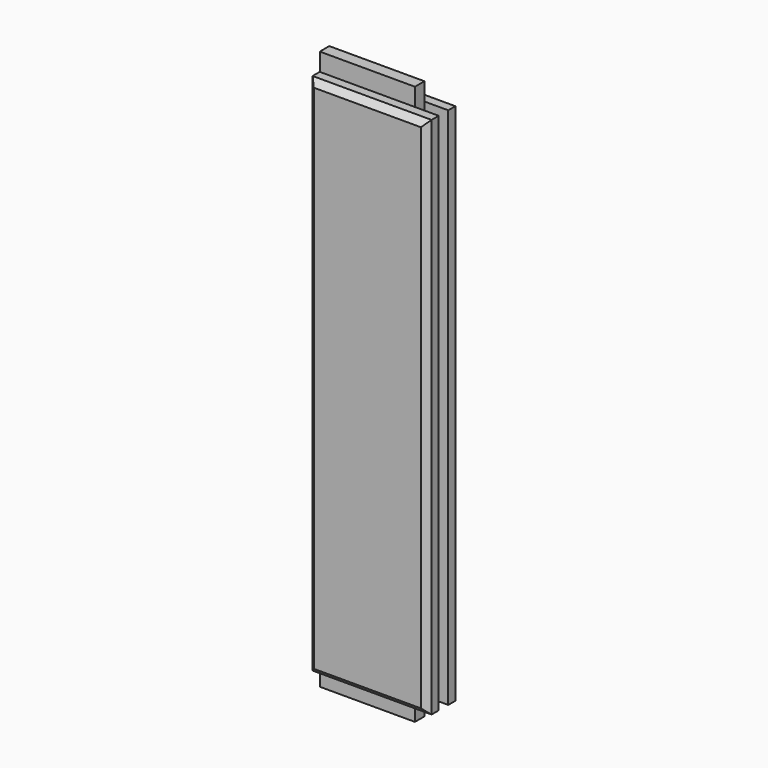
from build123d import *

# Parameters (mm, degrees)
F0_W     = 63.5
F0_H     = 19.05
F1_DEPTH = 279.4
F2_SIZE  = 3.175
F3_W     = 12.7
F3_H     = 6.35
F4_DEPTH = 279.401
F5_W     = 6.35
F5_H     = 9.525
F6_DEPTH = 50.8


with BuildPart() as f1:
    # F0 (on Top) → F1 (new body)
    with BuildSketch(Plane.XY):
        with Locations((31.75, 9.525)):
            Rectangle(F0_W, F0_H)
    extrude(amount=F1_DEPTH)

    # F2
    f2_edges = [f1.edges().sort_by_distance(p)[0] for p in [
        (0, 0, 139.7),
        (31.75, 0, 279.4),
        (63.5, 0, 139.7),
        (31.75, 0, 0),
    ]]
    chamfer(f2_edges, length=F2_SIZE)

    # F3 (on face) → F4 (cut, through all)
    with BuildSketch(Plane(origin=(0, 0, 0), x_dir=(1, 0, 0), z_dir=(0, 0, -1))):
        with Locations((57.15, -11.1125)):
            Rectangle(F3_W, F3_H)
    extrude(amount=-F4_DEPTH, mode=Mode.SUBTRACT)

    # F5 (on face) → F6 (join)
    with BuildSketch(Plane(origin=(0, 0, 0), x_dir=(0, -1, 0), z_dir=(-1, 0, 0))):
        with Locations((-11.1125, 284.1625)):
            Rectangle(F5_W, F5_H)
        with Locations((-11.1125, -4.7625)):
            Rectangle(F5_W, F5_H)
    extrude(amount=-F6_DEPTH)


solid = f1.part
